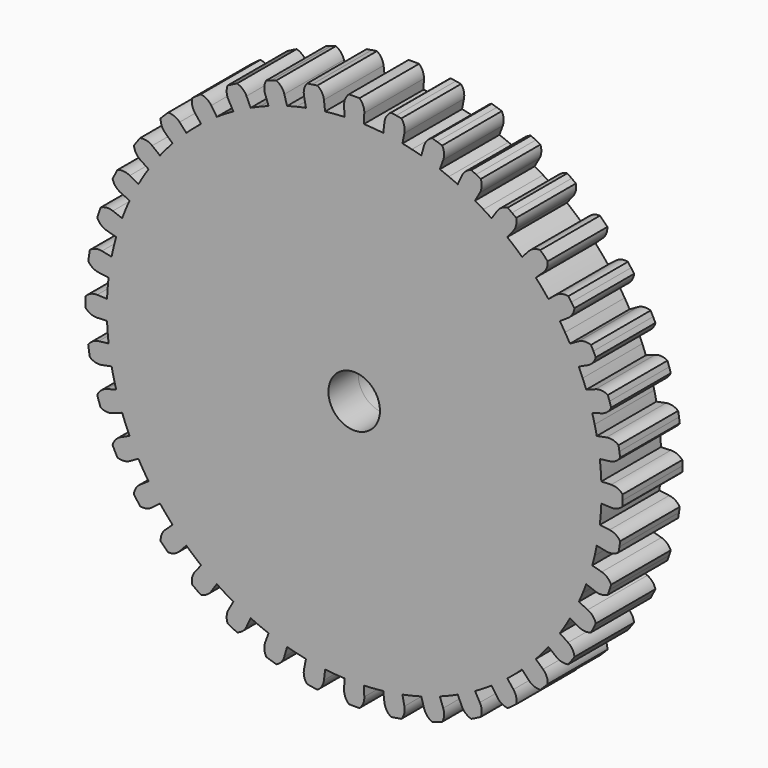
from build123d import *

# Parameters (mm, degrees)
F1_DEPTH = 2.8702


with BuildPart() as f1:
    # F0 (on Front) → F1 (new body, symmetric)
    with BuildSketch(Plane.XZ):
        with BuildLine():
            ThreePointArc((20.68195, 0), (20.6809533153, 0.2030413077), (20.6779633573, 0.4060630458))
            ThreePointArc((20.6779633573, 0.4060630458), (20.2787609256, 0.6901167078), (19.796725666, 0.7778154698))
            Line((19.796725666, 0.7778154698), (19.0353131404, 0.7478994902))
            ThreePointArc((19.0353131404, 0.7478994902), (19.016959874, 1.1214888096), (18.9912752076, 1.4946457736))
            Line((18.9912752076, 1.4946457736), (1.9782578341, 0.1556922681))
            ThreePointArc((1.9782578341, 0.1556922681), (1.9828451188, 0.0779061969), (1.984375, 0))
            Line((1.984375, 0), (20.68195, 0))
        make_face()
        with BuildLine():
            ThreePointArc((20.6779633573, -0.4060630458), (20.6809533153, -0.2030413077), (20.68195, 0))
            Line((20.68195, 0), (1.984375, 0))
            ThreePointArc((1.984375, 0), (-1.9828451188, -0.0779061969), (1.9782578341, 0.1556922681))
            Line((1.9782578341, 0.1556922681), (18.9912752076, 1.4946457736))
            ThreePointArc((18.9912752076, 1.4946457736), (18.9582690431, 1.8672265233), (18.917954105, 2.2390874216))
            Line((18.917954105, 2.2390874216), (19.6746722692, 2.3286509184))
            ThreePointArc((19.6746722692, 2.3286509184), (20.1370537659, 2.4906768911), (20.4869055706, 2.8336824))
            ThreePointArc((20.4869055706, 2.8336824), (20.4580991203, 3.0346723362), (20.4273208758, 3.2353697842))
            ThreePointArc((20.4273208758, 3.2353697842), (20.3945738036, 3.4357554006), (20.3598610599, 3.6358098718))
            ThreePointArc((20.3598610599, 3.6358098718), (19.9211376899, 3.853917343), (19.4313179753, 3.8651294598))
            Line((19.4313179753, 3.8651294598), (18.6839595917, 3.7164706344))
            ThreePointArc((18.6839595917, 3.7164706344), (18.6073900392, 4.0825893659), (18.5236469836, 4.4471341815))
            ThreePointArc((18.5236469836, 4.4471341815), (18.4327627095, 4.8099645421), (18.3347722544, 5.1709405699))
            Line((18.3347722544, 5.1709405699), (19.0681631446, 5.3777781927))
            ThreePointArc((19.0681631446, 5.3777781927), (19.4995055115, 5.6101417589), (19.7913921766, 6.0036531807))
            ThreePointArc((19.7913921766, 6.0036531807), (19.7314986283, 6.1976622756), (19.6697033172, 6.3910740268))
            ThreePointArc((19.6697033172, 6.3910740268), (19.6060121991, 6.583869793), (19.5404314127, 6.7760309922))
            ThreePointArc((19.5404314127, 6.7760309922), (19.0729899299, 6.9228217429), (18.5874467473, 6.8572711348))
            Line((18.5874467473, 6.8572711348), (17.8725449493, 6.5935299373))
            ThreePointArc((17.8725449493, 6.5935299373), (17.7396445072, 6.9431630227), (17.5999050943, 7.2901193866))
            ThreePointArc((17.5999050943, 7.2901193866), (17.4533805831, 7.6342652706), (17.3001274614, 7.975468))
            Line((17.3001274614, 7.975468), (17.9921325598, 8.2944867201))
            ThreePointArc((17.9921325598, 8.2944867201), (18.3818147162, 8.5914663176), (18.6085490234, 9.0257940951))
            ThreePointArc((18.6085490234, 9.0257940951), (18.5190431551, 9.2080452009), (18.4277523829, 9.3894088161))
            ThreePointArc((18.4277523829, 9.3894088161), (18.3346855056, 9.5698674605), (18.2398514932, 9.7494037412))
            ThreePointArc((18.2398514932, 9.7494037412), (17.7552018581, 9.8212632958), (17.2858908921, 9.6805640365))
            Line((17.2858908921, 9.6805640365), (16.6210489347, 9.3082346505))
            ThreePointArc((16.6210489347, 9.3082346505), (16.4350900529, 9.6327729629), (16.2427951309, 9.9535976578))
            ThreePointArc((16.2427951309, 9.9535976578), (16.0442383023, 10.2705850515), (15.8394961144, 10.583612939))
            Line((15.8394961144, 10.583612939), (16.4730759589, 11.0069574566))
            ThreePointArc((16.4730759589, 11.0069574566), (16.8115026369, 11.3612404621), (16.9675016349, 11.825690004))
            ThreePointArc((16.9675016349, 11.825690004), (16.8505873782, 11.9916954936), (16.7320490268, 12.1565451987))
            ThreePointArc((16.7320490268, 12.1565451987), (16.6118980057, 12.3202232305), (16.4901458953, 12.4827138137))
            ThreePointArc((16.4901458953, 12.4827138137), (16.0002217905, 12.4778727516), (15.5586990346, 12.2654893237))
            Line((15.5586990346, 12.2654893237), (14.9602875333, 11.7937397344))
            ThreePointArc((14.9602875333, 11.7937397344), (14.7258491366, 12.0851920633), (14.4857336447, 12.3719853207))
            ThreePointArc((14.4857336447, 12.3719853207), (14.2400336267, 12.6540089422), (13.9888438047, 12.9311542024))
            Line((13.9888438047, 12.9311542024), (14.5483975569, 13.4484003705))
            ThreePointArc((14.5483975569, 13.4484003705), (14.8272355685, 13.8512631607), (14.9086580443, 14.3343981778))
            ThreePointArc((14.9086580443, 14.3343981778), (14.7672142162, 14.4800704451), (14.6243470932, 14.6243470932))
            ThreePointArc((14.6243470932, 14.6243470932), (14.4800704451, 14.7672142162), (14.3343981778, 14.9086580443))
            ThreePointArc((14.3343981778, 14.9086580443), (13.8512631607, 14.8272355685), (13.4484003705, 14.5483975569))
            Line((13.4484003705, 14.5483975569), (12.9311542024, 13.9888438047))
            ThreePointArc((12.9311542024, 13.9888438047), (12.6540089422, 14.2400336267), (12.3719853207, 14.4857336447))
            ThreePointArc((12.3719853207, 14.4857336447), (12.0851920633, 14.7258491366), (11.7937397344, 14.9602875333))
            Line((11.7937397344, 14.9602875333), (12.2654893237, 15.5586990346))
            ThreePointArc((12.2654893237, 15.5586990346), (12.4778727516, 16.0002217905), (12.4827138137, 16.4901458953))
            ThreePointArc((12.4827138137, 16.4901458953), (12.3202232305, 16.6118980057), (12.1565451987, 16.7320490268))
            ThreePointArc((12.1565451987, 16.7320490268), (11.9916954936, 16.8505873782), (11.825690004, 16.9675016349))
            ThreePointArc((11.825690004, 16.9675016349), (11.3612404621, 16.8115026369), (11.0069574566, 16.4730759589))
            Line((11.0069574566, 16.4730759589), (10.583612939, 15.8394961144))
            ThreePointArc((10.583612939, 15.8394961144), (10.2705850515, 16.0442383023), (9.9535976578, 16.2427951309))
            ThreePointArc((9.9535976578, 16.2427951309), (9.6327729629, 16.4350900529), (9.3082346505, 16.6210489347))
            Line((9.3082346505, 16.6210489347), (9.6805640365, 17.2858908921))
            ThreePointArc((9.6805640365, 17.2858908921), (9.8212632958, 17.7552018581), (9.7494037412, 18.2398514932))
            ThreePointArc((9.7494037412, 18.2398514932), (9.5698674605, 18.3346855056), (9.3894088161, 18.4277523829))
            ThreePointArc((9.3894088161, 18.4277523829), (9.2080452009, 18.5190431551), (9.0257940951, 18.6085490234))
            ThreePointArc((9.0257940951, 18.6085490234), (8.5914663176, 18.3818147162), (8.2944867201, 17.9921325598))
            Line((8.2944867201, 17.9921325598), (7.975468, 17.3001274614))
            ThreePointArc((7.975468, 17.3001274614), (7.6342652706, 17.4533805831), (7.2901193866, 17.5999050943))
            ThreePointArc((7.2901193866, 17.5999050943), (6.9431630227, 17.7396445072), (6.5935299373, 17.8725449493))
            Line((6.5935299373, 17.8725449493), (6.8572711348, 18.5874467473))
            ThreePointArc((6.8572711348, 18.5874467473), (6.9228217429, 19.0729899299), (6.7760309922, 19.5404314127))
            ThreePointArc((6.7760309922, 19.5404314127), (6.583869793, 19.6060121991), (6.3910740268, 19.6697033172))
            ThreePointArc((6.3910740268, 19.6697033172), (6.1976622756, 19.7314986283), (6.0036531807, 19.7913921766))
            ThreePointArc((6.0036531807, 19.7913921766), (5.6101417589, 19.4995055115), (5.3777781927, 19.0681631446))
            Line((5.3777781927, 19.0681631446), (5.1709405699, 18.3347722544))
            ThreePointArc((5.1709405699, 18.3347722544), (4.8099645421, 18.4327627095), (4.4471341815, 18.5236469836))
            ThreePointArc((4.4471341815, 18.5236469836), (4.0825893659, 18.6073900392), (3.7164706344, 18.6839595917))
            Line((3.7164706344, 18.6839595917), (3.8651294598, 19.4313179753))
            ThreePointArc((3.8651294598, 19.4313179753), (3.853917343, 19.9211376899), (3.6358098718, 20.3598610599))
            ThreePointArc((3.6358098718, 20.3598610599), (3.4357554006, 20.3945738036), (3.2353697842, 20.4273208758))
            ThreePointArc((3.2353697842, 20.4273208758), (3.0346723362, 20.4580991203), (2.8336824, 20.4869055706))
            ThreePointArc((2.8336824, 20.4869055706), (2.4906768911, 20.1370537659), (2.3286509184, 19.6746722692))
            Line((2.3286509184, 19.6746722692), (2.2390874216, 18.917954105))
            ThreePointArc((2.2390874216, 18.917954105), (1.8672265233, 18.9582690431), (1.4946457736, 18.9912752076))
            ThreePointArc((1.4946457736, 18.9912752076), (1.1214888096, 19.016959874), (0.7478994902, 19.0353131404))
            Line((0.7478994902, 19.0353131404), (0.7778154698, 19.796725666))
            ThreePointArc((0.7778154698, 19.796725666), (0.6901167078, 20.2787609256), (0.4060630458, 20.6779633573))
            ThreePointArc((0.4060630458, 20.6779633573), (0.2030413077, 20.6809533153), (0, 20.68195))
            ThreePointArc((0, 20.68195), (-0.2030413077, 20.6809533153), (-0.4060630458, 20.6779633573))
            ThreePointArc((-0.4060630458, 20.6779633573), (-0.6901167078, 20.2787609256), (-0.7778154698, 19.796725666))
            Line((-0.7778154698, 19.796725666), (-0.7478994902, 19.0353131404))
            ThreePointArc((-0.7478994902, 19.0353131404), (-1.1214888096, 19.016959874), (-1.4946457736, 18.9912752076))
            ThreePointArc((-1.4946457736, 18.9912752076), (-1.8672265233, 18.9582690431), (-2.2390874216, 18.917954105))
            Line((-2.2390874216, 18.917954105), (-2.3286509184, 19.6746722692))
            ThreePointArc((-2.3286509184, 19.6746722692), (-2.4906768911, 20.1370537659), (-2.8336824, 20.4869055706))
            ThreePointArc((-2.8336824, 20.4869055706), (-3.0346723362, 20.4580991203), (-3.2353697842, 20.4273208758))
            ThreePointArc((-3.2353697842, 20.4273208758), (-3.4357554006, 20.3945738036), (-3.6358098718, 20.3598610599))
            ThreePointArc((-3.6358098718, 20.3598610599), (-3.853917343, 19.9211376899), (-3.8651294598, 19.4313179753))
            Line((-3.8651294598, 19.4313179753), (-3.7164706344, 18.6839595917))
            ThreePointArc((-3.7164706344, 18.6839595917), (-4.0825893659, 18.6073900392), (-4.4471341815, 18.5236469836))
            ThreePointArc((-4.4471341815, 18.5236469836), (-4.8099645421, 18.4327627095), (-5.1709405699, 18.3347722544))
            Line((-5.1709405699, 18.3347722544), (-5.3777781927, 19.0681631446))
            ThreePointArc((-5.3777781927, 19.0681631446), (-5.6101417589, 19.4995055115), (-6.0036531807, 19.7913921766))
            ThreePointArc((-6.0036531807, 19.7913921766), (-6.1976622756, 19.7314986283), (-6.3910740268, 19.6697033172))
            ThreePointArc((-6.3910740268, 19.6697033172), (-6.583869793, 19.6060121991), (-6.7760309922, 19.5404314127))
            ThreePointArc((-6.7760309922, 19.5404314127), (-6.9228217429, 19.0729899299), (-6.8572711348, 18.5874467473))
            Line((-6.8572711348, 18.5874467473), (-6.5935299373, 17.8725449493))
            ThreePointArc((-6.5935299373, 17.8725449493), (-6.9431630227, 17.7396445072), (-7.2901193866, 17.5999050943))
            ThreePointArc((-7.2901193866, 17.5999050943), (-7.6342652706, 17.4533805831), (-7.975468, 17.3001274614))
            Line((-7.975468, 17.3001274614), (-8.2944867201, 17.9921325598))
            ThreePointArc((-8.2944867201, 17.9921325598), (-8.5914663176, 18.3818147162), (-9.0257940951, 18.6085490234))
            ThreePointArc((-9.0257940951, 18.6085490234), (-9.2080452009, 18.5190431551), (-9.3894088161, 18.4277523829))
            ThreePointArc((-9.3894088161, 18.4277523829), (-9.5698674605, 18.3346855056), (-9.7494037412, 18.2398514932))
            ThreePointArc((-9.7494037412, 18.2398514932), (-9.8212632958, 17.7552018581), (-9.6805640365, 17.2858908921))
            Line((-9.6805640365, 17.2858908921), (-9.3082346505, 16.6210489347))
            ThreePointArc((-9.3082346505, 16.6210489347), (-9.6327729629, 16.4350900529), (-9.9535976578, 16.2427951309))
            ThreePointArc((-9.9535976578, 16.2427951309), (-10.2705850515, 16.0442383023), (-10.583612939, 15.8394961144))
            Line((-10.583612939, 15.8394961144), (-11.0069574566, 16.4730759589))
            ThreePointArc((-11.0069574566, 16.4730759589), (-11.3612404621, 16.8115026369), (-11.825690004, 16.9675016349))
            ThreePointArc((-11.825690004, 16.9675016349), (-11.9916954936, 16.8505873782), (-12.1565451987, 16.7320490268))
            ThreePointArc((-12.1565451987, 16.7320490268), (-12.3202232305, 16.6118980057), (-12.4827138137, 16.4901458953))
            ThreePointArc((-12.4827138137, 16.4901458953), (-12.4778727516, 16.0002217905), (-12.2654893237, 15.5586990346))
            Line((-12.2654893237, 15.5586990346), (-11.7937397344, 14.9602875333))
            ThreePointArc((-11.7937397344, 14.9602875333), (-12.0851920633, 14.7258491366), (-12.3719853207, 14.4857336447))
            ThreePointArc((-12.3719853207, 14.4857336447), (-12.6540089422, 14.2400336267), (-12.9311542024, 13.9888438047))
            Line((-12.9311542024, 13.9888438047), (-13.4484003705, 14.5483975569))
            ThreePointArc((-13.4484003705, 14.5483975569), (-13.8512631607, 14.8272355685), (-14.3343981778, 14.9086580443))
            ThreePointArc((-14.3343981778, 14.9086580443), (-14.4800704451, 14.7672142162), (-14.6243470932, 14.6243470932))
            ThreePointArc((-14.6243470932, 14.6243470932), (-14.7672142162, 14.4800704451), (-14.9086580443, 14.3343981778))
            ThreePointArc((-14.9086580443, 14.3343981778), (-14.8272355685, 13.8512631607), (-14.5483975569, 13.4484003705))
            Line((-14.5483975569, 13.4484003705), (-13.9888438047, 12.9311542024))
            ThreePointArc((-13.9888438047, 12.9311542024), (-14.2400336267, 12.6540089422), (-14.4857336447, 12.3719853207))
            ThreePointArc((-14.4857336447, 12.3719853207), (-14.7258491366, 12.0851920633), (-14.9602875333, 11.7937397344))
            Line((-14.9602875333, 11.7937397344), (-15.5586990346, 12.2654893237))
            ThreePointArc((-15.5586990346, 12.2654893237), (-16.0002217905, 12.4778727516), (-16.4901458953, 12.4827138137))
            ThreePointArc((-16.4901458953, 12.4827138137), (-16.6118980057, 12.3202232305), (-16.7320490268, 12.1565451987))
            ThreePointArc((-16.7320490268, 12.1565451987), (-16.8505873782, 11.9916954936), (-16.9675016349, 11.825690004))
            ThreePointArc((-16.9675016349, 11.825690004), (-16.8115026369, 11.3612404621), (-16.4730759589, 11.0069574566))
            Line((-16.4730759589, 11.0069574566), (-15.8394961144, 10.583612939))
            ThreePointArc((-15.8394961144, 10.583612939), (-16.0442383023, 10.2705850515), (-16.2427951309, 9.9535976578))
            ThreePointArc((-16.2427951309, 9.9535976578), (-16.4350900529, 9.6327729629), (-16.6210489347, 9.3082346505))
            Line((-16.6210489347, 9.3082346505), (-17.2858908921, 9.6805640365))
            ThreePointArc((-17.2858908921, 9.6805640365), (-17.7552018581, 9.8212632958), (-18.2398514932, 9.7494037412))
            ThreePointArc((-18.2398514932, 9.7494037412), (-18.3346855056, 9.5698674605), (-18.4277523829, 9.3894088161))
            ThreePointArc((-18.4277523829, 9.3894088161), (-18.5190431551, 9.2080452009), (-18.6085490234, 9.0257940951))
            ThreePointArc((-18.6085490234, 9.0257940951), (-18.3818147162, 8.5914663176), (-17.9921325598, 8.2944867201))
            Line((-17.9921325598, 8.2944867201), (-17.3001274614, 7.975468))
            ThreePointArc((-17.3001274614, 7.975468), (-17.4533805831, 7.6342652706), (-17.5999050943, 7.2901193866))
            ThreePointArc((-17.5999050943, 7.2901193866), (-17.7396445072, 6.9431630227), (-17.8725449493, 6.5935299373))
            Line((-17.8725449493, 6.5935299373), (-18.5874467473, 6.8572711348))
            ThreePointArc((-18.5874467473, 6.8572711348), (-19.0729899299, 6.9228217429), (-19.5404314127, 6.7760309922))
            ThreePointArc((-19.5404314127, 6.7760309922), (-19.6060121991, 6.583869793), (-19.6697033172, 6.3910740268))
            ThreePointArc((-19.6697033172, 6.3910740268), (-19.7314986283, 6.1976622756), (-19.7913921766, 6.0036531807))
            ThreePointArc((-19.7913921766, 6.0036531807), (-19.4995055115, 5.6101417589), (-19.0681631446, 5.3777781927))
            Line((-19.0681631446, 5.3777781927), (-18.3347722544, 5.1709405699))
            ThreePointArc((-18.3347722544, 5.1709405699), (-18.4327627095, 4.8099645421), (-18.5236469836, 4.4471341815))
            ThreePointArc((-18.5236469836, 4.4471341815), (-18.6073900392, 4.0825893659), (-18.6839595917, 3.7164706344))
            Line((-18.6839595917, 3.7164706344), (-19.4313179753, 3.8651294598))
            ThreePointArc((-19.4313179753, 3.8651294598), (-19.9211376899, 3.853917343), (-20.3598610599, 3.6358098718))
            ThreePointArc((-20.3598610599, 3.6358098718), (-20.3945738036, 3.4357554006), (-20.4273208758, 3.2353697842))
            ThreePointArc((-20.4273208758, 3.2353697842), (-20.4580991203, 3.0346723362), (-20.4869055706, 2.8336824))
            ThreePointArc((-20.4869055706, 2.8336824), (-20.1370537659, 2.4906768911), (-19.6746722692, 2.3286509184))
            Line((-19.6746722692, 2.3286509184), (-18.917954105, 2.2390874216))
            ThreePointArc((-18.917954105, 2.2390874216), (-18.9582690431, 1.8672265233), (-18.9912752076, 1.4946457736))
            ThreePointArc((-18.9912752076, 1.4946457736), (-19.016959874, 1.1214888096), (-19.0353131404, 0.7478994902))
            Line((-19.0353131404, 0.7478994902), (-19.796725666, 0.7778154698))
            ThreePointArc((-19.796725666, 0.7778154698), (-20.2787609256, 0.6901167078), (-20.6779633573, 0.4060630458))
            ThreePointArc((-20.6779633573, 0.4060630458), (-20.6809533153, 0.2030413077), (-20.68195, 0))
            ThreePointArc((-20.68195, 0), (-20.6809533153, -0.2030413077), (-20.6779633573, -0.4060630458))
            ThreePointArc((-20.6779633573, -0.4060630458), (-20.2787609256, -0.6901167078), (-19.796725666, -0.7778154698))
            Line((-19.796725666, -0.7778154698), (-19.0353131404, -0.7478994902))
            ThreePointArc((-19.0353131404, -0.7478994902), (-19.016959874, -1.1214888096), (-18.9912752076, -1.4946457736))
            ThreePointArc((-18.9912752076, -1.4946457736), (-18.9582690431, -1.8672265233), (-18.917954105, -2.2390874216))
            Line((-18.917954105, -2.2390874216), (-19.6746722692, -2.3286509184))
            ThreePointArc((-19.6746722692, -2.3286509184), (-20.1370537659, -2.4906768911), (-20.4869055706, -2.8336824))
            ThreePointArc((-20.4869055706, -2.8336824), (-20.4580991203, -3.0346723362), (-20.4273208758, -3.2353697842))
            ThreePointArc((-20.4273208758, -3.2353697842), (-20.3945738036, -3.4357554006), (-20.3598610599, -3.6358098718))
            ThreePointArc((-20.3598610599, -3.6358098718), (-19.9211376899, -3.853917343), (-19.4313179753, -3.8651294598))
            Line((-19.4313179753, -3.8651294598), (-18.6839595917, -3.7164706344))
            ThreePointArc((-18.6839595917, -3.7164706344), (-18.6073900392, -4.0825893659), (-18.5236469836, -4.4471341815))
            ThreePointArc((-18.5236469836, -4.4471341815), (-18.4327627095, -4.8099645421), (-18.3347722544, -5.1709405699))
            Line((-18.3347722544, -5.1709405699), (-19.0681631446, -5.3777781927))
            ThreePointArc((-19.0681631446, -5.3777781927), (-19.4995055115, -5.6101417589), (-19.7913921766, -6.0036531807))
            ThreePointArc((-19.7913921766, -6.0036531807), (-19.7314986283, -6.1976622756), (-19.6697033172, -6.3910740268))
            ThreePointArc((-19.6697033172, -6.3910740268), (-19.6060121991, -6.583869793), (-19.5404314127, -6.7760309922))
            ThreePointArc((-19.5404314127, -6.7760309922), (-19.0729899299, -6.9228217429), (-18.5874467473, -6.8572711348))
            Line((-18.5874467473, -6.8572711348), (-17.8725449493, -6.5935299373))
            ThreePointArc((-17.8725449493, -6.5935299373), (-17.7396445072, -6.9431630227), (-17.5999050943, -7.2901193866))
            ThreePointArc((-17.5999050943, -7.2901193866), (-17.4533805831, -7.6342652706), (-17.3001274614, -7.975468))
            Line((-17.3001274614, -7.975468), (-17.9921325598, -8.2944867201))
            ThreePointArc((-17.9921325598, -8.2944867201), (-18.3818147162, -8.5914663176), (-18.6085490234, -9.0257940951))
            ThreePointArc((-18.6085490234, -9.0257940951), (-18.5190431551, -9.2080452009), (-18.4277523829, -9.3894088161))
            ThreePointArc((-18.4277523829, -9.3894088161), (-18.3346855056, -9.5698674605), (-18.2398514932, -9.7494037412))
            ThreePointArc((-18.2398514932, -9.7494037412), (-17.7552018581, -9.8212632958), (-17.2858908921, -9.6805640365))
            Line((-17.2858908921, -9.6805640365), (-16.6210489347, -9.3082346505))
            ThreePointArc((-16.6210489347, -9.3082346505), (-16.4350900529, -9.6327729629), (-16.2427951309, -9.9535976578))
            ThreePointArc((-16.2427951309, -9.9535976578), (-16.0442383023, -10.2705850515), (-15.8394961144, -10.583612939))
            Line((-15.8394961144, -10.583612939), (-16.4730759589, -11.0069574566))
            ThreePointArc((-16.4730759589, -11.0069574566), (-16.8115026369, -11.3612404621), (-16.9675016349, -11.825690004))
            ThreePointArc((-16.9675016349, -11.825690004), (-16.8505873782, -11.9916954936), (-16.7320490268, -12.1565451987))
            ThreePointArc((-16.7320490268, -12.1565451987), (-16.6118980057, -12.3202232305), (-16.4901458953, -12.4827138137))
            ThreePointArc((-16.4901458953, -12.4827138137), (-16.0002217905, -12.4778727516), (-15.5586990346, -12.2654893237))
            Line((-15.5586990346, -12.2654893237), (-14.9602875333, -11.7937397344))
            ThreePointArc((-14.9602875333, -11.7937397344), (-14.7258491366, -12.0851920633), (-14.4857336447, -12.3719853207))
            ThreePointArc((-14.4857336447, -12.3719853207), (-14.2400336267, -12.6540089422), (-13.9888438047, -12.9311542024))
            Line((-13.9888438047, -12.9311542024), (-14.5483975569, -13.4484003705))
            ThreePointArc((-14.5483975569, -13.4484003705), (-14.8272355685, -13.8512631607), (-14.9086580443, -14.3343981778))
            ThreePointArc((-14.9086580443, -14.3343981778), (-14.7672142162, -14.4800704451), (-14.6243470932, -14.6243470932))
            ThreePointArc((-14.6243470932, -14.6243470932), (-14.4800704451, -14.7672142162), (-14.3343981778, -14.9086580443))
            ThreePointArc((-14.3343981778, -14.9086580443), (-13.8512631607, -14.8272355685), (-13.4484003705, -14.5483975569))
            Line((-13.4484003705, -14.5483975569), (-12.9311542024, -13.9888438047))
            ThreePointArc((-12.9311542024, -13.9888438047), (-12.6540089422, -14.2400336267), (-12.3719853207, -14.4857336447))
            ThreePointArc((-12.3719853207, -14.4857336447), (-12.0851920633, -14.7258491366), (-11.7937397344, -14.9602875333))
            Line((-11.7937397344, -14.9602875333), (-12.2654893237, -15.5586990346))
            ThreePointArc((-12.2654893237, -15.5586990346), (-12.4778727516, -16.0002217905), (-12.4827138137, -16.4901458953))
            ThreePointArc((-12.4827138137, -16.4901458953), (-12.3202232305, -16.6118980057), (-12.1565451987, -16.7320490268))
            ThreePointArc((-12.1565451987, -16.7320490268), (-11.9916954936, -16.8505873782), (-11.825690004, -16.9675016349))
            ThreePointArc((-11.825690004, -16.9675016349), (-11.3612404621, -16.8115026369), (-11.0069574566, -16.4730759589))
            Line((-11.0069574566, -16.4730759589), (-10.583612939, -15.8394961144))
            ThreePointArc((-10.583612939, -15.8394961144), (-10.2705850515, -16.0442383023), (-9.9535976578, -16.2427951309))
            ThreePointArc((-9.9535976578, -16.2427951309), (-9.6327729629, -16.4350900529), (-9.3082346505, -16.6210489347))
            Line((-9.3082346505, -16.6210489347), (-9.6805640365, -17.2858908921))
            ThreePointArc((-9.6805640365, -17.2858908921), (-9.8212632958, -17.7552018581), (-9.7494037412, -18.2398514932))
            ThreePointArc((-9.7494037412, -18.2398514932), (-9.5698674605, -18.3346855056), (-9.3894088161, -18.4277523829))
            ThreePointArc((-9.3894088161, -18.4277523829), (-9.2080452009, -18.5190431551), (-9.0257940951, -18.6085490234))
            ThreePointArc((-9.0257940951, -18.6085490234), (-8.5914663176, -18.3818147162), (-8.2944867201, -17.9921325598))
            Line((-8.2944867201, -17.9921325598), (-7.975468, -17.3001274614))
            ThreePointArc((-7.975468, -17.3001274614), (-7.6342652706, -17.4533805831), (-7.2901193866, -17.5999050943))
            ThreePointArc((-7.2901193866, -17.5999050943), (-6.9431630227, -17.7396445072), (-6.5935299373, -17.8725449493))
            Line((-6.5935299373, -17.8725449493), (-6.8572711348, -18.5874467473))
            ThreePointArc((-6.8572711348, -18.5874467473), (-6.9228217429, -19.0729899299), (-6.7760309922, -19.5404314127))
            ThreePointArc((-6.7760309922, -19.5404314127), (-6.583869793, -19.6060121991), (-6.3910740268, -19.6697033172))
            ThreePointArc((-6.3910740268, -19.6697033172), (-6.1976622756, -19.7314986283), (-6.0036531807, -19.7913921766))
            ThreePointArc((-6.0036531807, -19.7913921766), (-5.6101417589, -19.4995055115), (-5.3777781927, -19.0681631446))
            Line((-5.3777781927, -19.0681631446), (-5.1709405699, -18.3347722544))
            ThreePointArc((-5.1709405699, -18.3347722544), (-4.8099645421, -18.4327627095), (-4.4471341815, -18.5236469836))
            ThreePointArc((-4.4471341815, -18.5236469836), (-4.0825893659, -18.6073900392), (-3.7164706344, -18.6839595917))
            Line((-3.7164706344, -18.6839595917), (-3.8651294598, -19.4313179753))
            ThreePointArc((-3.8651294598, -19.4313179753), (-3.853917343, -19.9211376899), (-3.6358098718, -20.3598610599))
            ThreePointArc((-3.6358098718, -20.3598610599), (-3.4357554006, -20.3945738036), (-3.2353697842, -20.4273208758))
            ThreePointArc((-3.2353697842, -20.4273208758), (-3.0346723362, -20.4580991203), (-2.8336824, -20.4869055706))
            ThreePointArc((-2.8336824, -20.4869055706), (-2.4906768911, -20.1370537659), (-2.3286509184, -19.6746722692))
            Line((-2.3286509184, -19.6746722692), (-2.2390874216, -18.917954105))
            ThreePointArc((-2.2390874216, -18.917954105), (-1.8672265233, -18.9582690431), (-1.4946457736, -18.9912752076))
            ThreePointArc((-1.4946457736, -18.9912752076), (-1.1214888096, -19.016959874), (-0.7478994902, -19.0353131404))
            Line((-0.7478994902, -19.0353131404), (-0.7778154698, -19.796725666))
            ThreePointArc((-0.7778154698, -19.796725666), (-0.6901167078, -20.2787609256), (-0.4060630458, -20.6779633573))
            ThreePointArc((-0.4060630458, -20.6779633573), (-0.2030413077, -20.6809533153), (0, -20.68195))
            ThreePointArc((0, -20.68195), (0.2030413077, -20.6809533153), (0.4060630458, -20.6779633573))
            ThreePointArc((0.4060630458, -20.6779633573), (0.6901167078, -20.2787609256), (0.7778154698, -19.796725666))
            Line((0.7778154698, -19.796725666), (0.7478994902, -19.0353131404))
            ThreePointArc((0.7478994902, -19.0353131404), (1.1214888096, -19.016959874), (1.4946457736, -18.9912752076))
            ThreePointArc((1.4946457736, -18.9912752076), (1.8672265233, -18.9582690431), (2.2390874216, -18.917954105))
            Line((2.2390874216, -18.917954105), (2.3286509184, -19.6746722692))
            ThreePointArc((2.3286509184, -19.6746722692), (2.4906768911, -20.1370537659), (2.8336824, -20.4869055706))
            ThreePointArc((2.8336824, -20.4869055706), (3.0346723362, -20.4580991203), (3.2353697842, -20.4273208758))
            ThreePointArc((3.2353697842, -20.4273208758), (3.4357554006, -20.3945738036), (3.6358098718, -20.3598610599))
            ThreePointArc((3.6358098718, -20.3598610599), (3.853917343, -19.9211376899), (3.8651294598, -19.4313179753))
            Line((3.8651294598, -19.4313179753), (3.7164706344, -18.6839595917))
            ThreePointArc((3.7164706344, -18.6839595917), (4.0825893659, -18.6073900392), (4.4471341815, -18.5236469836))
            ThreePointArc((4.4471341815, -18.5236469836), (4.8099645421, -18.4327627095), (5.1709405699, -18.3347722544))
            Line((5.1709405699, -18.3347722544), (5.3777781927, -19.0681631446))
            ThreePointArc((5.3777781927, -19.0681631446), (5.6101417589, -19.4995055115), (6.0036531807, -19.7913921766))
            ThreePointArc((6.0036531807, -19.7913921766), (6.1976622756, -19.7314986283), (6.3910740268, -19.6697033172))
            ThreePointArc((6.3910740268, -19.6697033172), (6.583869793, -19.6060121991), (6.7760309922, -19.5404314127))
            ThreePointArc((6.7760309922, -19.5404314127), (6.9228217429, -19.0729899299), (6.8572711348, -18.5874467473))
            Line((6.8572711348, -18.5874467473), (6.5935299373, -17.8725449493))
            ThreePointArc((6.5935299373, -17.8725449493), (6.9431630227, -17.7396445072), (7.2901193866, -17.5999050943))
            ThreePointArc((7.2901193866, -17.5999050943), (7.6342652706, -17.4533805831), (7.975468, -17.3001274614))
            Line((7.975468, -17.3001274614), (8.2944867201, -17.9921325598))
            ThreePointArc((8.2944867201, -17.9921325598), (8.5914663176, -18.3818147162), (9.0257940951, -18.6085490234))
            ThreePointArc((9.0257940951, -18.6085490234), (9.2080452009, -18.5190431551), (9.3894088161, -18.4277523829))
            ThreePointArc((9.3894088161, -18.4277523829), (9.5698674605, -18.3346855056), (9.7494037412, -18.2398514932))
            ThreePointArc((9.7494037412, -18.2398514932), (9.8212632958, -17.7552018581), (9.6805640365, -17.2858908921))
            Line((9.6805640365, -17.2858908921), (9.3082346505, -16.6210489347))
            ThreePointArc((9.3082346505, -16.6210489347), (9.6327729629, -16.4350900529), (9.9535976578, -16.2427951309))
            ThreePointArc((9.9535976578, -16.2427951309), (10.2705850515, -16.0442383023), (10.583612939, -15.8394961144))
            Line((10.583612939, -15.8394961144), (11.0069574566, -16.4730759589))
            ThreePointArc((11.0069574566, -16.4730759589), (11.3612404621, -16.8115026369), (11.825690004, -16.9675016349))
            ThreePointArc((11.825690004, -16.9675016349), (11.9916954936, -16.8505873782), (12.1565451987, -16.7320490268))
            ThreePointArc((12.1565451987, -16.7320490268), (12.3202232305, -16.6118980057), (12.4827138137, -16.4901458953))
            ThreePointArc((12.4827138137, -16.4901458953), (12.4778727516, -16.0002217905), (12.2654893237, -15.5586990346))
            Line((12.2654893237, -15.5586990346), (11.7937397344, -14.9602875333))
            ThreePointArc((11.7937397344, -14.9602875333), (12.0851920633, -14.7258491366), (12.3719853207, -14.4857336447))
            ThreePointArc((12.3719853207, -14.4857336447), (12.6540089422, -14.2400336267), (12.9311542024, -13.9888438047))
            Line((12.9311542024, -13.9888438047), (13.4484003705, -14.5483975569))
            ThreePointArc((13.4484003705, -14.5483975569), (13.8512631607, -14.8272355685), (14.3343981778, -14.9086580443))
            ThreePointArc((14.3343981778, -14.9086580443), (14.4800704451, -14.7672142162), (14.6243470932, -14.6243470932))
            ThreePointArc((14.6243470932, -14.6243470932), (14.7672142162, -14.4800704451), (14.9086580443, -14.3343981778))
            ThreePointArc((14.9086580443, -14.3343981778), (14.8272355685, -13.8512631607), (14.5483975569, -13.4484003705))
            Line((14.5483975569, -13.4484003705), (13.9888438047, -12.9311542024))
            ThreePointArc((13.9888438047, -12.9311542024), (14.2400336267, -12.6540089422), (14.4857336447, -12.3719853207))
            ThreePointArc((14.4857336447, -12.3719853207), (14.7258491366, -12.0851920633), (14.9602875333, -11.7937397344))
            Line((14.9602875333, -11.7937397344), (15.5586990346, -12.2654893237))
            ThreePointArc((15.5586990346, -12.2654893237), (16.0002217905, -12.4778727516), (16.4901458953, -12.4827138137))
            ThreePointArc((16.4901458953, -12.4827138137), (16.6118980057, -12.3202232305), (16.7320490268, -12.1565451987))
            ThreePointArc((16.7320490268, -12.1565451987), (16.8505873782, -11.9916954936), (16.9675016349, -11.825690004))
            ThreePointArc((16.9675016349, -11.825690004), (16.8115026369, -11.3612404621), (16.4730759589, -11.0069574566))
            Line((16.4730759589, -11.0069574566), (15.8394961144, -10.583612939))
            ThreePointArc((15.8394961144, -10.583612939), (16.0442383023, -10.2705850515), (16.2427951309, -9.9535976578))
            ThreePointArc((16.2427951309, -9.9535976578), (16.4350900529, -9.6327729629), (16.6210489347, -9.3082346505))
            Line((16.6210489347, -9.3082346505), (17.2858908921, -9.6805640365))
            ThreePointArc((17.2858908921, -9.6805640365), (17.7552018581, -9.8212632958), (18.2398514932, -9.7494037412))
            ThreePointArc((18.2398514932, -9.7494037412), (18.3346855056, -9.5698674605), (18.4277523829, -9.3894088161))
            ThreePointArc((18.4277523829, -9.3894088161), (18.5190431551, -9.2080452009), (18.6085490234, -9.0257940951))
            ThreePointArc((18.6085490234, -9.0257940951), (18.3818147162, -8.5914663176), (17.9921325598, -8.2944867201))
            Line((17.9921325598, -8.2944867201), (17.3001274614, -7.975468))
            ThreePointArc((17.3001274614, -7.975468), (17.4533805831, -7.6342652706), (17.5999050943, -7.2901193866))
            ThreePointArc((17.5999050943, -7.2901193866), (17.7396445072, -6.9431630227), (17.8725449493, -6.5935299373))
            Line((17.8725449493, -6.5935299373), (18.5874467473, -6.8572711348))
            ThreePointArc((18.5874467473, -6.8572711348), (19.0729899299, -6.9228217429), (19.5404314127, -6.7760309922))
            ThreePointArc((19.5404314127, -6.7760309922), (19.6060121991, -6.583869793), (19.6697033172, -6.3910740268))
            ThreePointArc((19.6697033172, -6.3910740268), (19.7314986283, -6.1976622756), (19.7913921766, -6.0036531807))
            ThreePointArc((19.7913921766, -6.0036531807), (19.4995055115, -5.6101417589), (19.0681631446, -5.3777781927))
            Line((19.0681631446, -5.3777781927), (18.3347722544, -5.1709405699))
            ThreePointArc((18.3347722544, -5.1709405699), (18.4327627095, -4.8099645421), (18.5236469836, -4.4471341815))
            ThreePointArc((18.5236469836, -4.4471341815), (18.6073900392, -4.0825893659), (18.6839595917, -3.7164706344))
            Line((18.6839595917, -3.7164706344), (19.4313179753, -3.8651294598))
            ThreePointArc((19.4313179753, -3.8651294598), (19.9211376899, -3.853917343), (20.3598610599, -3.6358098718))
            ThreePointArc((20.3598610599, -3.6358098718), (20.3945738036, -3.4357554006), (20.4273208758, -3.2353697842))
            ThreePointArc((20.4273208758, -3.2353697842), (20.4580991203, -3.0346723362), (20.4869055706, -2.8336824))
            ThreePointArc((20.4869055706, -2.8336824), (20.1370537659, -2.4906768911), (19.6746722692, -2.3286509184))
            Line((19.6746722692, -2.3286509184), (18.917954105, -2.2390874216))
            ThreePointArc((18.917954105, -2.2390874216), (18.9582690431, -1.8672265233), (18.9912752076, -1.4946457736))
            ThreePointArc((18.9912752076, -1.4946457736), (19.016959874, -1.1214888096), (19.0353131404, -0.7478994902))
            Line((19.0353131404, -0.7478994902), (19.796725666, -0.7778154698))
            ThreePointArc((19.796725666, -0.7778154698), (20.2787609256, -0.6901167078), (20.6779633573, -0.4060630458))
        make_face()
    extrude(amount=F1_DEPTH, both=True)


solid = f1.part
